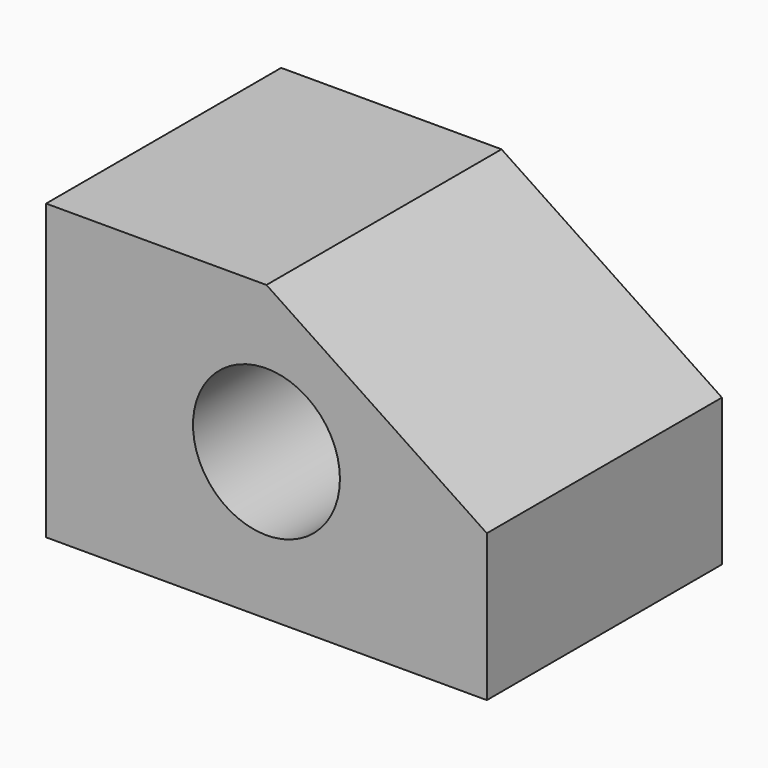
from build123d import *

# Parameters (mm, degrees)
F0_W     = 76.2
F0_H     = 50.8
F1_DEPTH = 50.8
F3_DEPTH = 50.8
F2_R     = 12.7
F4_DEPTH = 50.8


with BuildPart() as f1:
    # F0 (on Top) → F1 (new body)
    with BuildSketch(Plane.XY):
        Rectangle(F0_W, F0_H)
    extrude(amount=F1_DEPTH)

    # F2 (on face) → F3 (cut)
    with BuildSketch(Plane.XZ.offset(25.4)):
        Polygon((38.1, 50.8), (0, 50.8), (38.1, 25.4), align=None)
    extrude(amount=-F3_DEPTH, mode=Mode.SUBTRACT)

    # F2 (on face) → F4 (cut)
    with BuildSketch(Plane.XZ.offset(25.4)):
        with Locations((0, 25.4)):
            Circle(F2_R)
    extrude(amount=-F4_DEPTH, mode=Mode.SUBTRACT)


solid = f1.part
